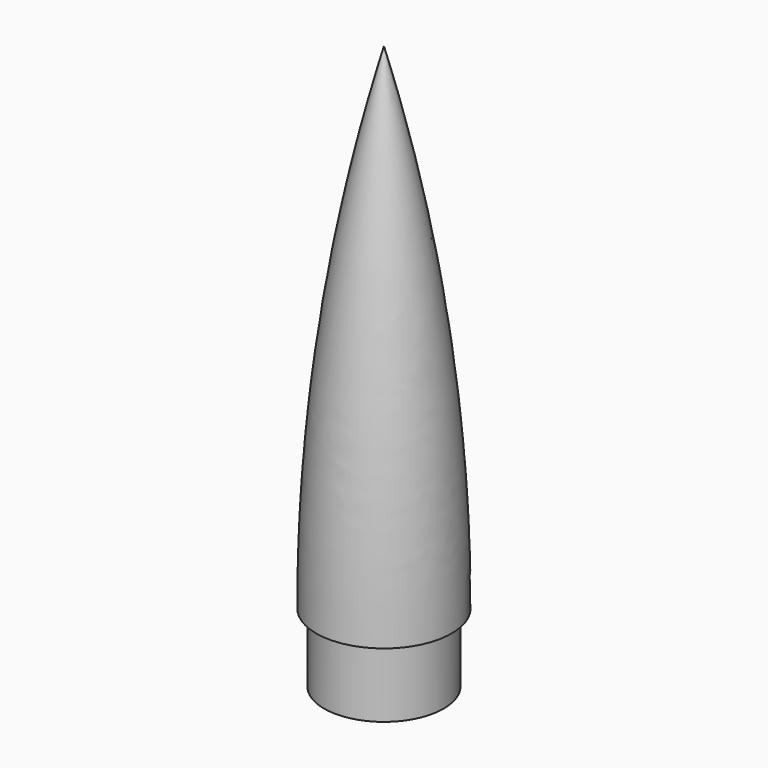
from build123d import *

# Parameters (mm, degrees)
F2_R     = 11.049
F2_R_2   = 8.6868
F3_DEPTH = 12.7


with BuildPart() as f1:
    # F0 (on Front) → F1 (revolve)
    with BuildSketch(Plane.XZ):
        with BuildLine():
            Line((0, 82.209632), (0, 91.44))
            ThreePointArc((0, 91.44), (-9.367628, 46.145859), (-12.5095, 0))
            Line((-12.5095, 0), (-10.1473, 0))
            ThreePointArc((-10.1473, 0), (-7.600885, 41.416758), (0, 82.209632))
        make_face()
    revolve(axis=Axis((0, 0, 86.824816), (0, 0, 1)))

    # F2 (on Top) → F3 (join)
    with BuildSketch(Plane.XY):
        Circle(F2_R)
        Circle(F2_R_2, mode=Mode.SUBTRACT)
    extrude(amount=-F3_DEPTH)


solid = f1.part
